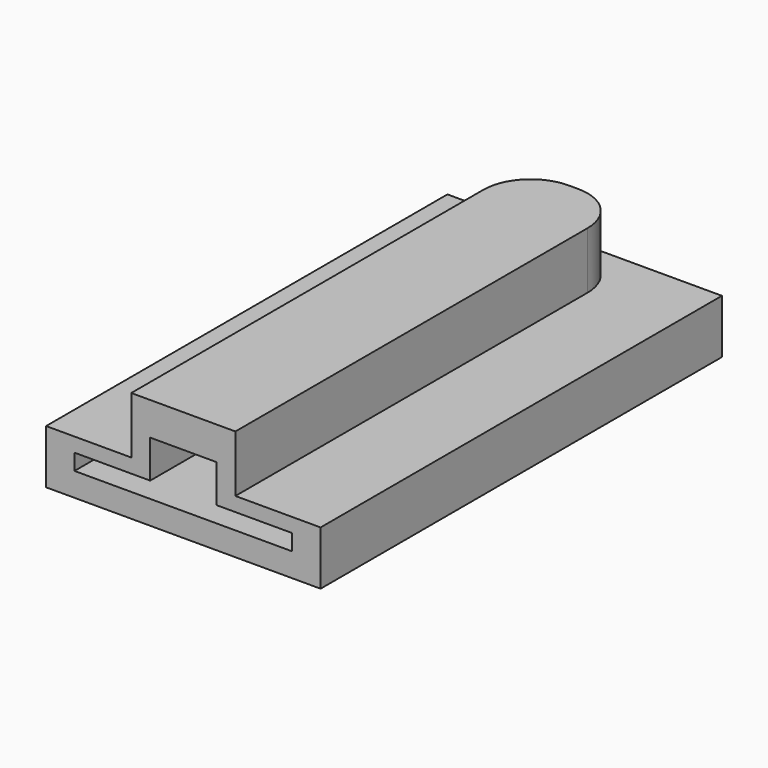
from build123d import *

# Parameters (mm, degrees)
F0_W      = 23
F0_H      = 50
F1_DEPTH  = 1.5
F2_DEPTH  = 3.2
F3_W      = 7
F3_H      = 3
F3_W_2    = 6
F3_H_2    = 50
F4_DEPTH  = 1.5
F3_W_3    = 2
F5_DEPTH  = 6
F6_W      = 11
F6_H      = 1.5
F7_DEPTH  = 4.5
F8_W      = 11
F8_H      = 51.5
F9_DEPTH  = 1.5
F10_R     = 5
F11_W     = 29
F11_H     = 53
F12_DEPTH = 1
F13_W     = 7
F13_H     = 2
F14_DEPTH = 2


with BuildPart() as f1:
    # F0 (on Top) → F1 (new body)
    with BuildSketch(Plane.XY):
        with Locations((-14.5, -16.2683480976)):
            Rectangle(F0_W, F0_H)
    extrude(amount=F1_DEPTH)

    # F0 (on Top) → F2 (join)
    with BuildSketch(Plane.XY):
        Polygon((-26, -41.2683480976), (-26, 8.7316519024), (-3, 8.7316519024), (-3, -41.2683480976), (0, -41.2683480976), (0, 11.7316519024), (-29, 11.7316519024), (-29, -41.2683480976), align=None)
    extrude(amount=F2_DEPTH)

    # F3 (on face) → F4 (join)
    with BuildSketch(Plane.XY.offset(3.2)):
        with Locations((-14.5, 10.2316519024)):
            Rectangle(F3_W, F3_H)
        with Locations((-23, -16.2683480976)):
            Rectangle(F3_W_2, F3_H_2)
        with Locations((-6, -16.2683480976)):
            Rectangle(F3_W_2, F3_H_2)
        Polygon((-18, 11.7316519024), (-29, 11.7316519024), (-29, -41.2683480976), (-26, -41.2683480976), (-26, 8.7316519024), (-20, 8.7316519024), (-18, 8.7316519024), align=None)
        Polygon((0, 11.7316519024), (-11, 11.7316519024), (-11, 8.7316519024), (-9, 8.7316519024), (-3, 8.7316519024), (-3, -41.2683480976), (0, -41.2683480976), align=None)
    extrude(amount=F4_DEPTH)

    # F3 (on face) → F5 (join)
    with BuildSketch(Plane.XY.offset(3.2)):
        with Locations((-10, -16.2683480976)):
            Rectangle(F3_W_3, F3_H_2)
        with Locations((-19, -16.2683480976)):
            Rectangle(F3_W_3, F3_H_2)
    extrude(amount=F5_DEPTH)

    # F6 (on face) → F7 (join)
    with BuildSketch(Plane.XY.offset(4.7)):
        with Locations((-14.5, 9.4816519024)):
            Rectangle(F6_W, F6_H)
    extrude(amount=F7_DEPTH)

    # F8 (on face) → F9 (join)
    with BuildSketch(Plane.XY.offset(9.2)):
        with Locations((-14.5, -15.5183480976)):
            Rectangle(F8_W, F8_H)
    extrude(amount=F9_DEPTH)

    # F10
    f10_edges = [f1.edges().sort_by_distance(p)[0] for p in [
        (-20, 10.231652, 7.7),
        (-9, 10.231652, 7.7),
    ]]
    fillet(f10_edges, radius=F10_R)

    # F11 (on face) → F12 (join)
    with BuildSketch(Plane(origin=(0, 0, 0), x_dir=(1, 0, 0), z_dir=(0, 0, -1))):
        with Locations((-14.5, 14.7683480976)):
            Rectangle(F11_W, F11_H)
    extrude(amount=F12_DEPTH)

    # F13 (on face) → F14 (join)
    with BuildSketch(Plane(origin=(0, 0, 9.2), x_dir=(1, 0, 0), z_dir=(0, 0, -1))):
        with Locations((-14.5, 40.2683480976)):
            Rectangle(F13_W, F13_H)
    extrude(amount=F14_DEPTH)


solid = f1.part
